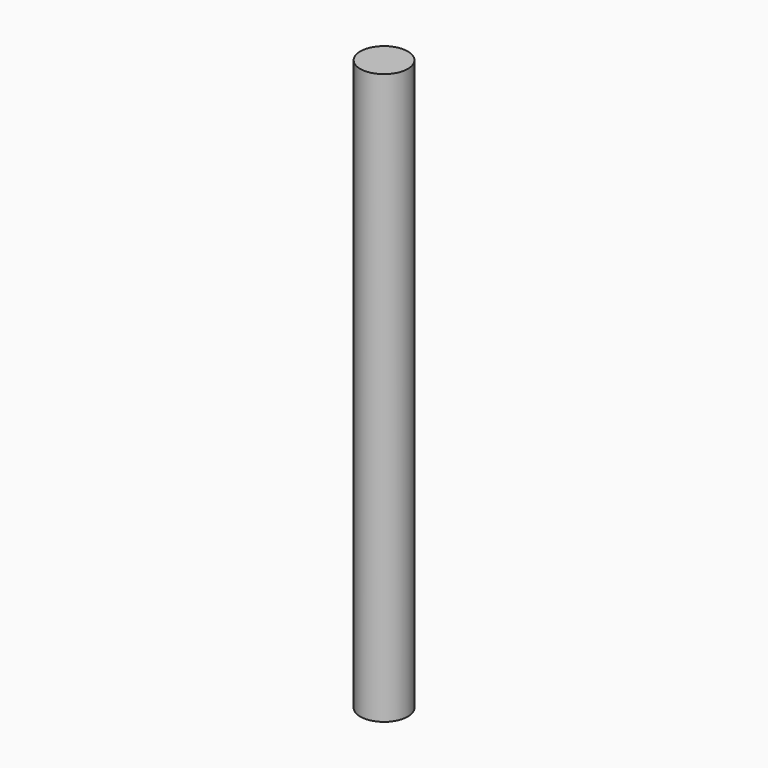
from build123d import *

# Parameters (mm, degrees)
F0_R     = 12.7
F1_DEPTH = 304.8


with BuildPart() as f1:
    # F0 (on Top) → F1 (new body)
    with BuildSketch(Plane.XY):
        Circle(F0_R)
    extrude(amount=F1_DEPTH)


with BuildPart() as f2_1:
    # F2: copy of F1
    add(f1.part)


solid = Compound([f1.part, f2_1.part])
